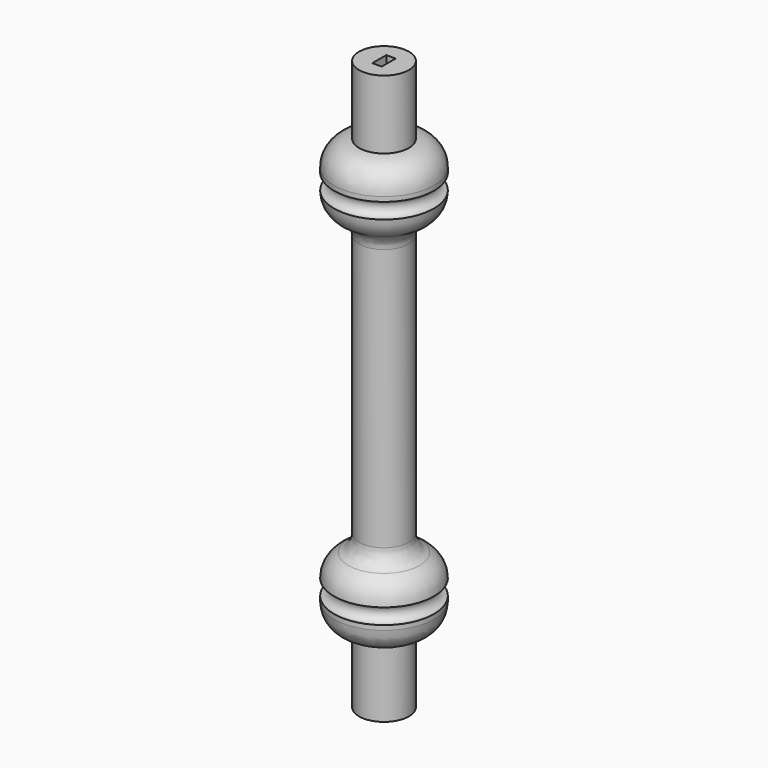
from build123d import *

# Parameters (mm, degrees)
FILLET_R     = 3
SKETCH001_W  = 1.5
SKETCH001_H  = 2.800016
POCKET_DEPTH = 1.5


with BuildPart() as part:
    # Sketch → Revolution (revolve)
    with BuildSketch(Plane.YZ):
        with BuildLine():
            Line((0, 0), (-4, 0))
            Line((-4, 0), (-4, 11))
            ThreePointArc((-8, 15), (-6.828427, 12.171573), (-4, 11))
            Line((-8, 15.75), (-8, 15))
            ThreePointArc((-8, 15.75), (-6.75, 17), (-8, 18.25))
            ThreePointArc((-4, 22.25), (-6.828427, 21.078427), (-8, 18.25))
            Line((-4, 22.25), (-4, 69))
            ThreePointArc((-8, 73), (-6.828427, 70.171573), (-4, 69))
            ThreePointArc((-8, 73), (-6.75, 74.25), (-8, 75.5))
            Line((-8, 75.5), (-8, 76.25))
            ThreePointArc((-4, 80.25), (-6.828427, 79.078427), (-8, 76.25))
            Line((-4, 91.25), (-4, 80.25))
            Line((0, 91.25), (-4, 91.25))
            Line((0, 0), (0, 91.25))
        make_face()
    revolve(axis=Axis((0, 0, 0), (0, 0, 1)))

    # Fillet
    fillet_edges = [part.edges().sort_by_distance(p)[0] for p in [
        (0, 4, 22.25),
        (0, 4, 69),
        (0, -4, 45.625),
    ]]
    fillet(fillet_edges, radius=FILLET_R)

    # Sketch001 → Pocket (cut)
    with BuildSketch(Plane.XY.offset(91.25)):
        Rectangle(SKETCH001_W, SKETCH001_H)
    extrude(amount=-POCKET_DEPTH, mode=Mode.SUBTRACT)


solid = part.part
